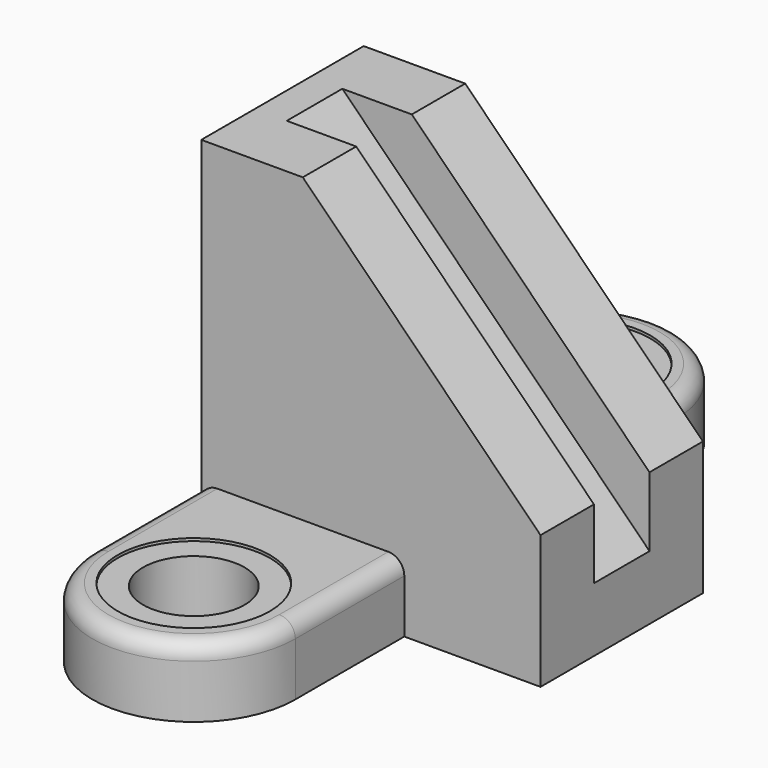
from build123d import *

# Parameters (mm, degrees)
F0_W      = 127
F0_H      = 76
F1_DEPTH  = 139
F3_DEPTH  = 76.001
F4_W      = 26
F4_H      = 26
F7_W      = 76
F7_H      = 51
F8_DEPTH  = 26
F9_W      = 76
F9_H      = 51
F10_DEPTH = 26
F11_R     = 6
F12_R     = 6
F13_R     = 28.5
F14_DEPTH = 1
F15_R     = 19
F16_DEPTH = 25.001
F17_R     = 28.5
F18_DEPTH = 1
F19_R     = 19
F20_DEPTH = 25.001


with BuildPart() as f1:
    # F0 (on Top) → F1 (new body)
    with BuildSketch(Plane.XY):
        with Locations((63.5, 38)):
            Rectangle(F0_W, F0_H)
    extrude(amount=F1_DEPTH)

    # F2 (on face) → F3 (cut, through all)
    with BuildSketch(Plane.XZ):
        Polygon((127, 139), (38, 139), (127, 50), align=None)
    extrude(amount=-F3_DEPTH, mode=Mode.SUBTRACT)

    # F6: sweep along a path in F5
    with BuildLine(Plane.XZ) as f6_path:
        Line((12, 139), (127, 24))
    # F4 (on face) → F6 (sweep, cut)
    with BuildSketch(Plane.XY.offset(139)):
        with Locations((25, 38)):
            Rectangle(F4_W, F4_H)
    sweep(path=f6_path.line, mode=Mode.SUBTRACT)

    # F7 (on Top) → F8 (join)
    with BuildSketch(Plane.XY):
        with BuildLine():
            Line((76, -51), (0, -51))
            ThreePointArc((0, -51), (38, -89), (76, -51))
        make_face()
        with Locations((38, -25.5)):
            Rectangle(F7_W, F7_H)
    extrude(amount=F8_DEPTH)

    # F9 (on face) → F10 (join)
    with BuildSketch(Plane(origin=(0, 0, 0), x_dir=(1, 0, 0), z_dir=(0, 0, -1))):
        with BuildLine():
            Line((76, -127), (0, -127))
            ThreePointArc((0, -127), (38, -165), (76, -127))
        make_face()
        with Locations((38, -101.5)):
            Rectangle(F9_W, F9_H)
    extrude(amount=-F10_DEPTH)

    # F11
    f11_edges = [f1.edges().sort_by_distance(p)[0] for p in [
        (0, -25.5, 26),
    ]]
    fillet(f11_edges, radius=F11_R)

    # F12
    f12_edges = [f1.edges().sort_by_distance(p)[0] for p in [
        (0, 101.5, 26),
    ]]
    fillet(f12_edges, radius=F12_R)

    # F13 (on face) → F14 (cut)
    with BuildSketch(Plane.XY.offset(26)):
        with Locations((38, -51)):
            Circle(F13_R)
    extrude(amount=-F14_DEPTH, mode=Mode.SUBTRACT)

    # F15 (on face) → F16 (cut, through all)
    with BuildSketch(Plane.XY.offset(25)):
        with Locations((38, -51)):
            Circle(F15_R)
    extrude(amount=-F16_DEPTH, mode=Mode.SUBTRACT)

    # F17 (on face) → F18 (cut)
    with BuildSketch(Plane.XY.offset(26)):
        with Locations((38, 127)):
            Circle(F17_R)
    extrude(amount=-F18_DEPTH, mode=Mode.SUBTRACT)

    # F19 (on face) → F20 (cut, through all)
    with BuildSketch(Plane.XY.offset(25)):
        with Locations((38, 127)):
            Circle(F19_R)
    extrude(amount=-F20_DEPTH, mode=Mode.SUBTRACT)


solid = f1.part
